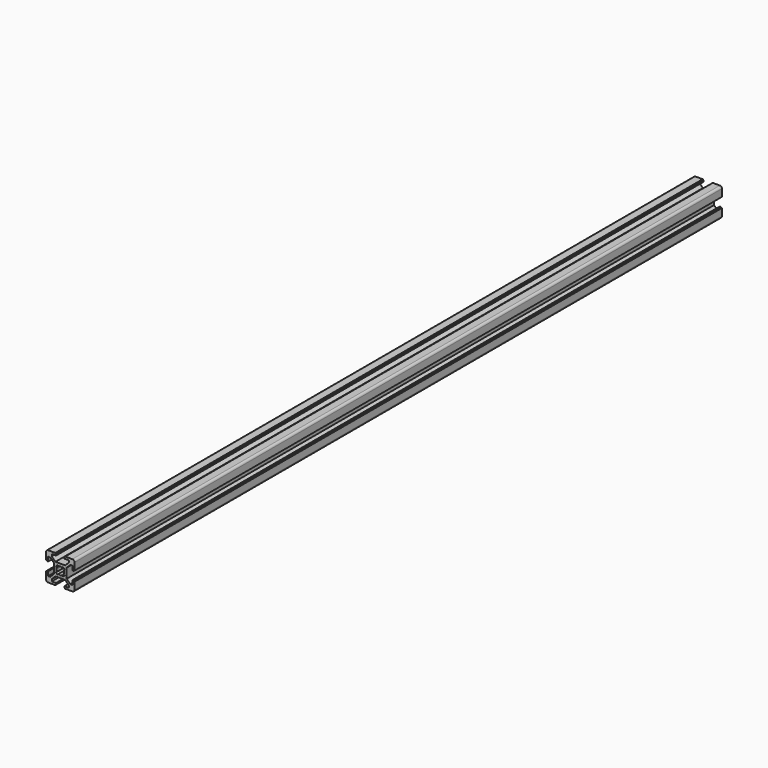
from build123d import *

# Parameters (mm, degrees)
F1_DEPTH = 570


with BuildPart() as f1:
    # F0 (on Front) → F1 (new body)
    with BuildSketch(Plane.XZ):
        with BuildLine():
            Line((3.43934, 4.5), (0, 4.5))
            Line((0, 4.5), (-3.43934, 4.5))
            Line((-3.43934, 4.5), (-6, 7.06066))
            Line((-6, 7.06066), (-6, 8.5))
            Line((-6, 8.5), (-3, 8.5))
            Line((-3, 8.5), (-3, 9.5))
            Line((-3, 9.5), (-3.5, 9.5))
            Line((-3.5, 9.5), (-3.5, 10))
            Line((-3.5, 10), (-8.5, 10))
            ThreePointArc((-8.5, 10), (-9.56066, 9.56066), (-10, 8.5))
            Line((-10, 8.5), (-10, 3.5))
            Line((-10, 3.5), (-9.5, 3.5))
            Line((-9.5, 3.5), (-9.5, 3))
            Line((-9.5, 3), (-8.5, 3))
            Line((-8.5, 3), (-8.5, 6))
            Line((-8.5, 6), (-7.06066, 6))
            Line((-7.06066, 6), (-4.5, 3.43934))
            Line((-4.5, 3.43934), (-4.5, 0))
            Line((-4.5, 0), (-4.5, -3.43934))
            Line((-4.5, -3.43934), (-7.06066, -6))
            Line((-7.06066, -6), (-8.5, -6))
            Line((-8.5, -6), (-8.5, -3))
            Line((-8.5, -3), (-9.5, -3))
            Line((-9.5, -3), (-9.5, -3.5))
            Line((-9.5, -3.5), (-10, -3.5))
            Line((-10, -3.5), (-10, -8.5))
            ThreePointArc((-10, -8.5), (-9.56066, -9.56066), (-8.5, -10))
            Line((-8.5, -10), (-3.5, -10))
            Line((-3.5, -10), (-3.5, -9.5))
            Line((-3.5, -9.5), (-3, -9.5))
            Line((-3, -9.5), (-3, -8.5))
            Line((-3, -8.5), (-6, -8.5))
            Line((-6, -8.5), (-6, -7.06066))
            Line((-6, -7.06066), (-3.43934, -4.5))
            Line((-3.43934, -4.5), (0, -4.5))
            Line((0, -4.5), (3.43934, -4.5))
            Line((3.43934, -4.5), (6, -7.06066))
            Line((6, -7.06066), (6, -8.5))
            Line((6, -8.5), (3, -8.5))
            Line((3, -8.5), (3, -9.5))
            Line((3, -9.5), (3.5, -9.5))
            Line((3.5, -9.5), (3.5, -10))
            Line((3.5, -10), (8.5, -10))
            ThreePointArc((8.5, -10), (9.56066, -9.56066), (10, -8.5))
            Line((10, -8.5), (10, -3.5))
            Line((10, -3.5), (9.5, -3.5))
            Line((9.5, -3.5), (9.5, -3))
            Line((9.5, -3), (8.5, -3))
            Line((8.5, -3), (8.5, -6))
            Line((8.5, -6), (7.06066, -6))
            Line((7.06066, -6), (4.5, -3.43934))
            Line((4.5, -3.43934), (4.5, 0))
            Line((4.5, 0), (4.5, 3.43934))
            Line((4.5, 3.43934), (7.06066, 6))
            Line((7.06066, 6), (8.5, 6))
            Line((8.5, 6), (8.5, 3))
            Line((8.5, 3), (9.5, 3))
            Line((9.5, 3), (9.5, 3.5))
            Line((9.5, 3.5), (10, 3.5))
            Line((10, 3.5), (10, 8.5))
            ThreePointArc((10, 8.5), (9.56066, 9.56066), (8.5, 10))
            Line((8.5, 10), (3.5, 10))
            Line((3.5, 10), (3.5, 9.5))
            Line((3.5, 9.5), (3, 9.5))
            Line((3, 9.5), (3, 8.5))
            Line((3, 8.5), (6, 8.5))
            Line((6, 8.5), (6, 7.06066))
            Line((6, 7.06066), (3.43934, 4.5))
        make_face()
        with BuildLine():
            ThreePointArc((-1.340499, 2.401159), (-0.692573, 2.661361), (0, 2.75))
            ThreePointArc((0, 2.75), (0.692573, 2.661361), (1.340499, 2.401159))
            Line((1.340499, 2.401159), (1.962753, 3.023413))
            Line((1.962753, 3.023413), (3.023413, 1.962753))
            Line((3.023413, 1.962753), (2.401159, 1.340499))
            ThreePointArc((2.401159, 1.340499), (2.661361, 0.692573), (2.75, 0))
            ThreePointArc((2.75, 0), (2.661361, -0.692573), (2.401159, -1.340499))
            Line((2.401159, -1.340499), (3.023413, -1.962753))
            Line((3.023413, -1.962753), (1.962753, -3.023413))
            Line((1.962753, -3.023413), (1.340499, -2.401159))
            ThreePointArc((1.340499, -2.401159), (0.692573, -2.661361), (0, -2.75))
            ThreePointArc((0, -2.75), (-0.692573, -2.661361), (-1.340499, -2.401159))
            Line((-1.340499, -2.401159), (-1.962753, -3.023413))
            Line((-1.962753, -3.023413), (-3.023413, -1.962753))
            Line((-3.023413, -1.962753), (-2.401159, -1.340499))
            ThreePointArc((-2.401159, -1.340499), (-2.661361, -0.692573), (-2.75, 0))
            ThreePointArc((-2.75, 0), (-2.661361, 0.692573), (-2.401159, 1.340499))
            Line((-2.401159, 1.340499), (-3.023413, 1.962753))
            Line((-3.023413, 1.962753), (-1.962753, 3.023413))
            Line((-1.962753, 3.023413), (-1.340499, 2.401159))
        make_face(mode=Mode.SUBTRACT)
    extrude(amount=F1_DEPTH)


solid = f1.part
